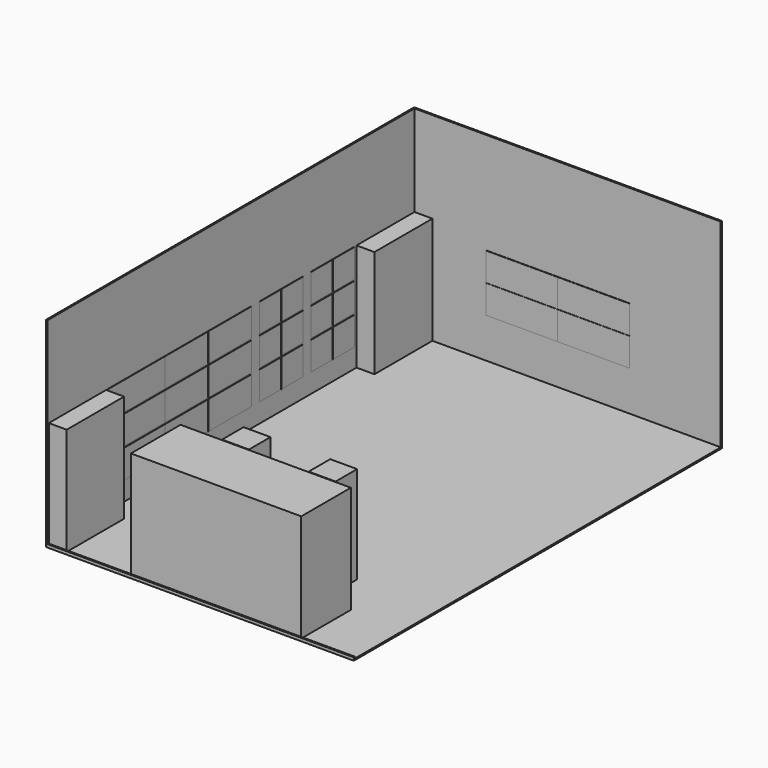
from build123d import *

# Parameters (mm, degrees)
F0_W      = 7823.2
F0_H      = 3403.6
F1_DEPTH  = 5232.4
F3_DEPTH  = 5207
F4_W      = 5207
F4_H      = 7772.4
F5_DEPTH  = 25.4
F6_W      = 2895.6
F6_H      = 1054.1
F7_DEPTH  = 1828.8
F8_W      = 1219.2
F8_H      = 482.6
F8_W_2    = 914.4
F9_DEPTH  = 6.35
F10_W     = 457.2
F10_H     = 482.6
F11_DEPTH = 6.35
F12_W     = 1219.2
F12_H     = 482.6
F13_DEPTH = 6.35
F14_W     = 304.8
F14_H     = 1231.9
F15_DEPTH = 1828.8
F16_W     = 304.8
F16_H     = 1219.2
F17_DEPTH = 1828.8
F18_W     = 457.2
F18_H     = 457.2
F19_DEPTH = 1651


with BuildPart() as f1:
    # F0 (on Right) → F1 (new body)
    with BuildSketch(Plane.YZ):
        Rectangle(F0_W, F0_H)
    extrude(amount=F1_DEPTH)

    # F2 (on face) → F3 (cut)
    with BuildSketch(Plane.YZ.offset(5232.4)):
        Polygon((3886.2, 1701.8), (3911.6, 1701.8), (3976.405621, 2212.079525), (-4512.191772, 2212.079525), (-4512.191772, -1701.8), (-3911.6, -1701.8), (-3911.6, -1651), (3886.2, -1651), align=None)
    extrude(amount=-F3_DEPTH, mode=Mode.SUBTRACT)

    # F4 (on face) → F5 (cut)
    with BuildSketch(Plane.XY.offset(-1651)):
        with Locations((2628.9, 0)):
            Rectangle(F4_W, F4_H)
    extrude(amount=-F5_DEPTH, mode=Mode.SUBTRACT)

    # F6 (on face) → F7 (join)
    with BuildSketch(Plane.XY.offset(-1676.4)):
        with Locations((2870.2, -3359.15)):
            Rectangle(F6_W, F6_H)
    extrude(amount=F7_DEPTH)

    # F8 (on face) → F9 (join)
    with BuildSketch(Plane.YZ.offset(25.4)):
        with Locations((-2032, -88.9)):
            Rectangle(F8_W, F8_H)
        with Locations((-2032, -596.9)):
            Rectangle(F8_W, F8_H)
        with Locations((-2032, -1104.9)):
            Rectangle(F8_W, F8_H)
        with Locations((-962.66, -88.9)):
            Rectangle(F8_W_2, F8_H)
        with Locations((-962.66, -596.9)):
            Rectangle(F8_W_2, F8_H)
        with Locations((-962.66, -1104.9)):
            Rectangle(F8_W_2, F8_H)
        with Locations((-45.72, -88.9)):
            Rectangle(F8_W_2, F8_H)
        with Locations((-45.72, -596.9)):
            Rectangle(F8_W_2, F8_H)
        with Locations((-45.72, -1104.9)):
            Rectangle(F8_W_2, F8_H)
    extrude(amount=F9_DEPTH)

    # F10 (on face) → F11 (join)
    with BuildSketch(Plane.YZ.offset(25.4)):
        with Locations((817.88, -88.9)):
            Rectangle(F10_W, F10_H)
        with Locations((817.88, -596.9)):
            Rectangle(F10_W, F10_H)
        with Locations((817.88, -1104.9)):
            Rectangle(F10_W, F10_H)
        with Locations((1277.62, -88.9)):
            Rectangle(F10_W, F10_H)
        with Locations((1277.62, -596.9)):
            Rectangle(F10_W, F10_H)
        with Locations((1277.62, -1104.9)):
            Rectangle(F10_W, F10_H)
        with Locations((1912.62, -88.9)):
            Rectangle(F10_W, F10_H)
        with Locations((1912.62, -596.9)):
            Rectangle(F10_W, F10_H)
        with Locations((1912.62, -1104.9)):
            Rectangle(F10_W, F10_H)
        with Locations((2372.36, -88.9)):
            Rectangle(F10_W, F10_H)
        with Locations((2372.36, -596.9)):
            Rectangle(F10_W, F10_H)
        with Locations((2372.36, -1104.9)):
            Rectangle(F10_W, F10_H)
    extrude(amount=F11_DEPTH)

    # F12 (on face) → F13 (join)
    with BuildSketch(Plane.XZ.offset(-3886.2)):
        with Locations((1854.2, -266.7)):
            Rectangle(F12_W, F12_H)
        with Locations((3075.94, -266.7)):
            Rectangle(F12_W, F12_H)
        with Locations((1854.2, -751.84)):
            Rectangle(F12_W, F12_H)
        with Locations((3075.94, -751.84)):
            Rectangle(F12_W, F12_H)
    extrude(amount=F13_DEPTH)

    # F14 (on face) → F15 (join)
    with BuildSketch(Plane.XY.offset(-1676.4)):
        with Locations((177.8, 3270.25)):
            Rectangle(F14_W, F14_H)
    extrude(amount=F15_DEPTH)

    # F16 (on face) → F17 (join)
    with BuildSketch(Plane.XY.offset(-1676.4)):
        with Locations((177.8, -3276.6)):
            Rectangle(F16_W, F16_H)
    extrude(amount=F17_DEPTH)

    # F18 (on face) → F19 (join)
    with BuildSketch(Plane.XY.offset(-1676.4)):
        with Locations((2133.6, -2324.1)):
            Rectangle(F18_W, F18_H)
        with Locations((3606.8, -2324.1)):
            Rectangle(F18_W, F18_H)
    extrude(amount=F19_DEPTH)


solid = f1.part
